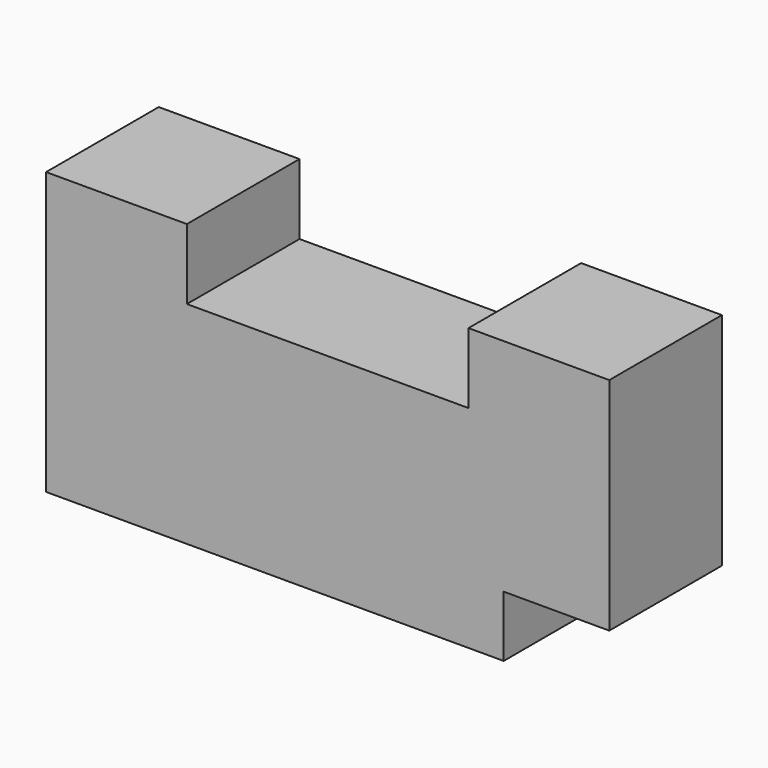
from build123d import *

# Parameters (mm, degrees)
F0_W     = 101.6
F0_H     = 50.8
F1_DEPTH = 25.4
F2_W     = 50.8
F2_H     = 25.4
F3_DEPTH = 12.7
F4_W     = 25.4
F4_H     = 11.0103109196
F5_DEPTH = 19.05


with BuildPart() as f1:
    # F0 (on Front) → F1 (new body)
    with BuildSketch(Plane.XZ):
        Rectangle(F0_W, F0_H)
    extrude(amount=F1_DEPTH)

    # F2 (on face) → F3 (cut)
    with BuildSketch(Plane.XY.offset(25.4)):
        with Locations((0, -12.7)):
            Rectangle(F2_W, F2_H)
    extrude(amount=-F3_DEPTH, mode=Mode.SUBTRACT)

    # F4 (on face) → F5 (cut)
    with BuildSketch(Plane.YZ.offset(50.8)):
        with Locations((-12.7, -19.8948445402)):
            Rectangle(F4_W, F4_H)
    extrude(amount=-F5_DEPTH, mode=Mode.SUBTRACT)


solid = f1.part
